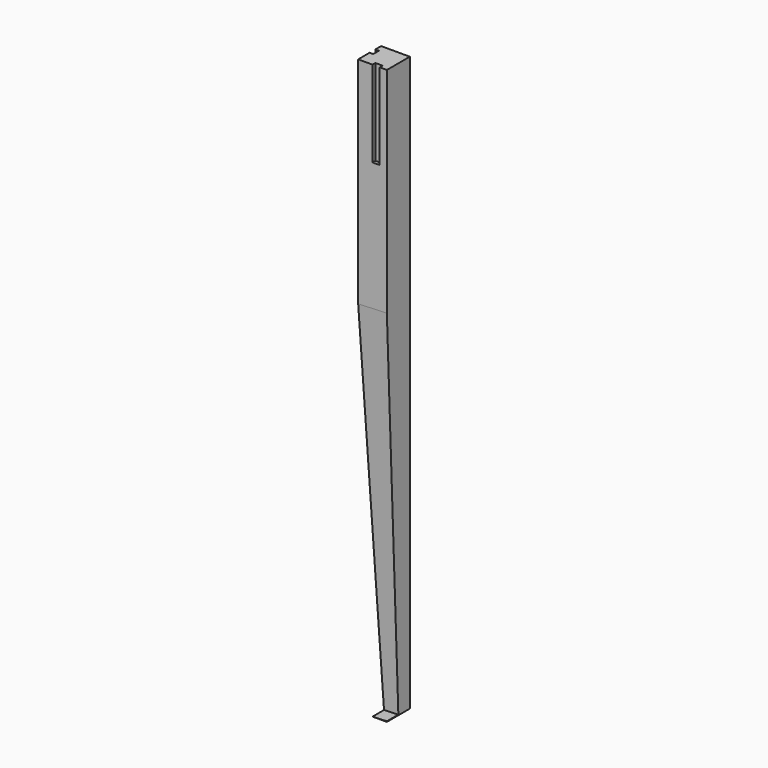
from build123d import *

# Parameters (mm, degrees)
F1_DEPTH = 50.8
F2_W     = 12.7
F2_H     = 152.4
F3_DEPTH = 6.35
F5_DEPTH = 65.988231
F6_W     = 12.7
F6_H     = 152.4
F7_DEPTH = 6.35


with BuildPart() as f1:
    # F0 (on Front) → F1 (new body)
    with BuildSketch(Plane.XZ):
        Polygon((0, -1016), (0, 0), (-50.8, 0), (-50.8, -381), (-25.4, -1016), align=None)
    extrude(amount=-F1_DEPTH)

    # F2 (on face) → F3 (cut)
    with BuildSketch(Plane(origin=(-50.8, 0, 0), x_dir=(0, -1, 0), z_dir=(-1, 0, 0))):
        with Locations((-31.75, -76.2)):
            Rectangle(F2_W, F2_H)
    extrude(amount=-F3_DEPTH, mode=Mode.SUBTRACT)

    # F4 (on face) → F5 (cut, through all)
    with BuildSketch(Plane(origin=(-65.934505, 0, -2.63738), x_dir=(0, -1, 0), z_dir=(-0.999201, 0, -0.039968))):
        Polygon((0, -1014.172986), (0, -378.665189), (-25.4, -1014.172986), align=None)
    extrude(amount=-F5_DEPTH, mode=Mode.SUBTRACT)

    # F6 (on face) → F7 (cut)
    with BuildSketch(Plane.XZ):
        with Locations((-19.05, -76.2)):
            Rectangle(F6_W, F6_H)
        with Locations((-19.05, -76.2)):
            Rectangle(F6_W, F6_H)
    extrude(amount=-F7_DEPTH, mode=Mode.SUBTRACT)


solid = f1.part
